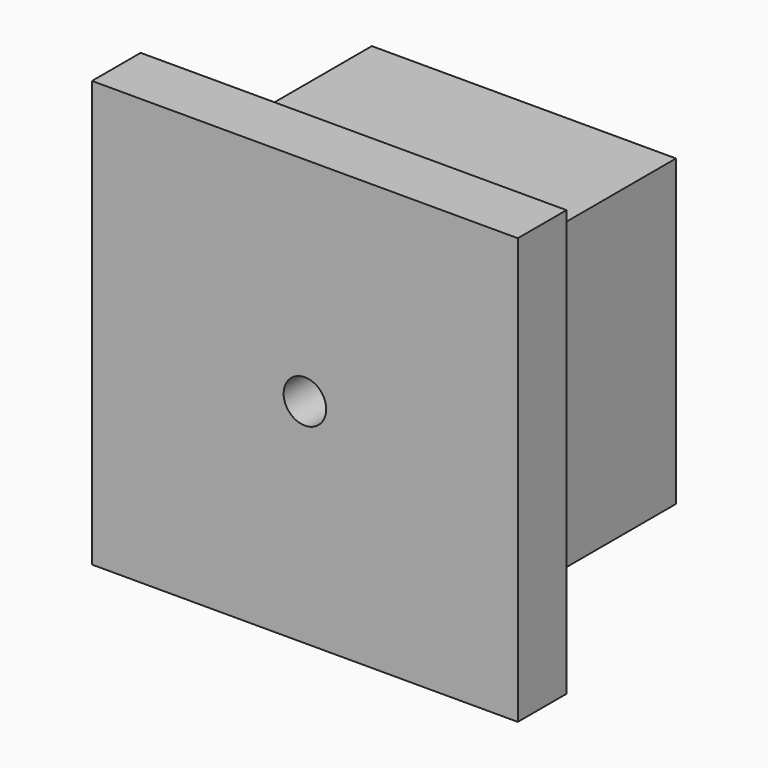
from build123d import *

# Parameters (mm, degrees)
CYLINDER041_R          = 0.7
CYLINDER041_DEPTH      = 10
CYLINDER041_ROLL_ANGLE = 90
BOX074_W               = 14
BOX074_H               = 2
BOX074_DEPTH           = 14
BOX073_W               = 10
BOX073_H               = 10
BOX073_DEPTH           = 10
CHAMFER008_SIZE        = 1


with BuildPart() as cylinder073:
    # Cylinder041 → Cylinder041 (new body)
    with BuildSketch(Plane.XY):
        Circle(CYLINDER041_R)
    extrude(amount=CYLINDER041_DEPTH)


with BuildPart() as cylinder073_1:
    # Cylinder041 roll: moved
    add(cylinder073.part.rotate(Axis((0, 0, 0), (1, 0, 0)), CYLINDER041_ROLL_ANGLE))


with BuildPart() as cylinder073_2:
    # Cylinder041 placement: moved
    add(cylinder073_1.part.moved(Location((50, 72, 53))))


with BuildPart() as cube073:
    # Box074 → Box074 (new body)
    with BuildSketch(Plane(origin=(-37, 0, 0), x_dir=(1, 0, 0), z_dir=(0, 0, 1))):
        with Locations((7, 1)):
            Rectangle(BOX074_W, BOX074_H)
    extrude(amount=BOX074_DEPTH)


with BuildPart() as cut086:
    # Box073 → Box073 (new body)
    with BuildSketch(Plane(origin=(-35, 0, 2), x_dir=(1, 0, 0), z_dir=(0, 0, 1))):
        with Locations((5, 5)):
            Rectangle(BOX073_W, BOX073_H)
    extrude(amount=BOX073_DEPTH)

    # Fusion023: union Cube073
    add(cube073.part)


with BuildPart() as cut086_1:
    # Fusion023 placement: moved
    add(cut086.part.moved(Location((80, 64, 46))))

    # Chamfer008
    chamfer008_edges = [cut086_1.edges().sort_by_distance(p)[0] for p in [
        (45, 74, 53),
        (50, 74, 48),
        (55, 74, 53),
        (50, 74, 58),
    ]]
    chamfer(chamfer008_edges, length=CHAMFER008_SIZE)

    # Cut086: cut Cylinder073
    add(cylinder073_2.part, mode=Mode.SUBTRACT)


solid = cut086_1.part
